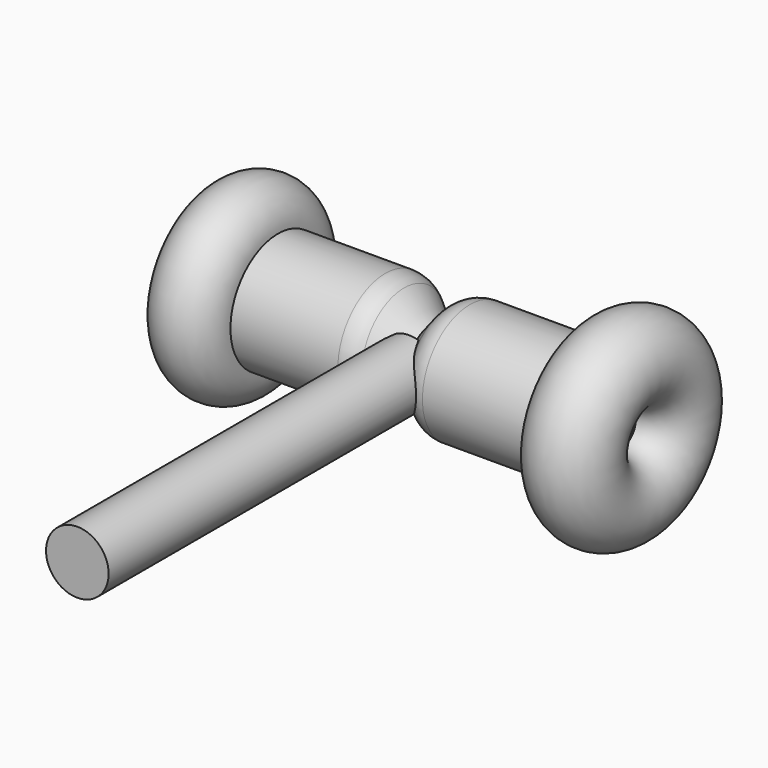
from build123d import *

# Parameters (mm, degrees)
F2_R     = 6.805697
F3_DEPTH = 33.274
F4_DEPTH = 56.896


with BuildPart() as f1:
    # F0 (on Top) → F1 (revolve)
    with BuildSketch(Plane.XY):
        with BuildLine():
            Line((-41.295487, 39.35976), (41.295487, 39.35976))
            Line((41.295487, 39.35976), (41.295487, 43.265841))
            ThreePointArc((41.295487, 43.265841), (47.658569, 58.627679), (32.296731, 52.264597))
            Line((32.296731, 52.264597), (8.351196, 52.264597))
            ThreePointArc((8.351196, 52.264597), (5.657809, 51.66509), (3.47299, 49.979768))
            Line((3.47299, 49.979768), (0, 45.812178))
            Line((0, 45.812178), (-5.976751, 50.792803))
            ThreePointArc((-5.976751, 50.792803), (-7.880221, 51.885322), (-10.041921, 52.264597))
            Line((-10.041921, 52.264597), (-33.386332, 52.264597))
            ThreePointArc((-33.386332, 52.264597), (-46.888105, 57.857214), (-41.295487, 44.355442))
            Line((-41.295487, 44.355442), (-41.295487, 39.35976))
        make_face()
    revolve(axis=Axis((0, 39.35976, 0), (-1, 0, 0)))

    # F2 (on Front) → F3 (join)
    with BuildSketch(Plane.XZ):
        Circle(F2_R)
    extrude(amount=-F3_DEPTH)

    # F2 (on Front) → F4 (join)
    with BuildSketch(Plane.XZ):
        Circle(F2_R)
    extrude(amount=F4_DEPTH)


solid = f1.part
